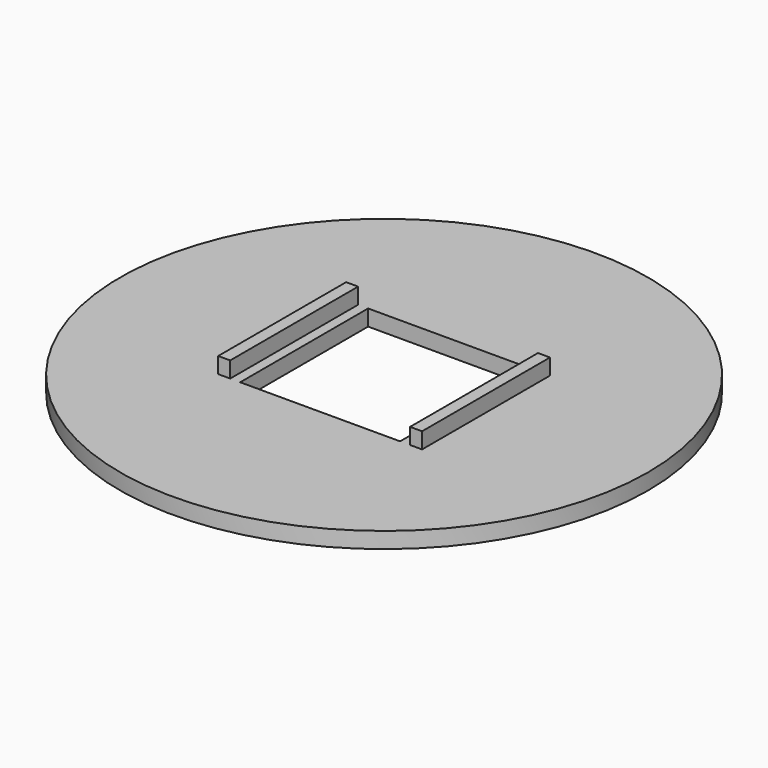
from build123d import *

# Parameters (mm, degrees)
F0_R     = 33.02
F0_W     = 1.5
F0_H     = 20
F1_DEPTH = 2
F2_W     = 1.5
F2_H     = 20
F3_DEPTH = 2


with BuildPart() as f1:
    # F0 (on Top) → F1 (new body)
    with BuildSketch(Plane.XY):
        Circle(F0_R)
        with Locations((-14.033131, 0)):
            Rectangle(F0_W, F0_H, mode=Mode.SUBTRACT)
        Polygon((0, -10), (-10, -10), (-10, 10), (0, 10), (10, 10), (10, -10), align=None, mode=Mode.SUBTRACT)
        with Locations((14.033131, 0)):
            Rectangle(F0_W, F0_H, mode=Mode.SUBTRACT)
        with Locations((-14.033131, 0)):
            Rectangle(F0_W, F0_H)
        with Locations((14.033131, 0)):
            Rectangle(F0_W, F0_H)
    extrude(amount=F1_DEPTH)

    # F2 (on face) → F3 (join)
    with BuildSketch(Plane.XY.offset(2)):
        with Locations((-12, 0)):
            Rectangle(F2_W, F2_H)
        with Locations((12, 0)):
            Rectangle(F2_W, F2_H)
    extrude(amount=F3_DEPTH)


solid = f1.part
